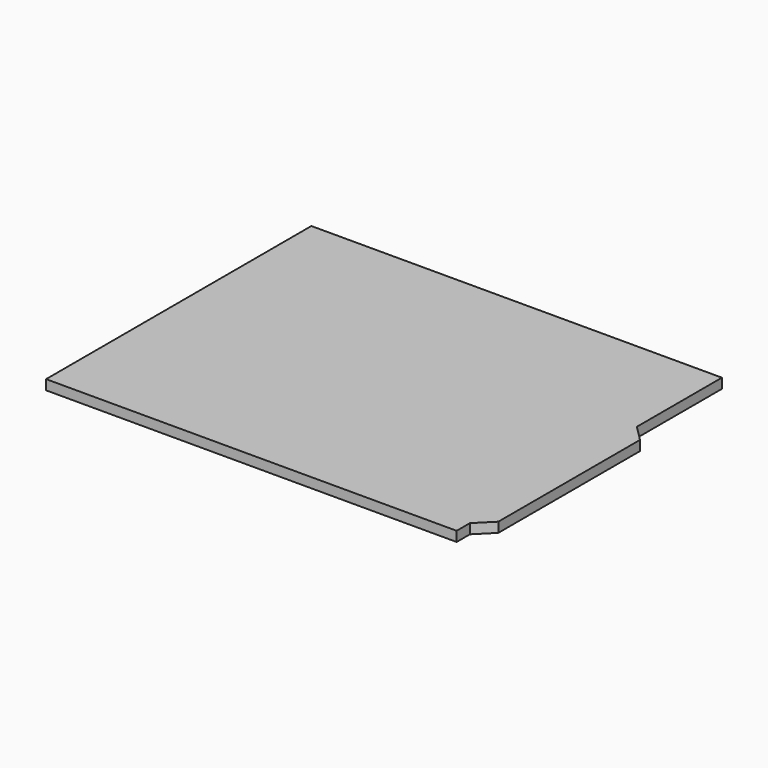
from build123d import *

# Parameters (mm, degrees)
F1_DEPTH = 1.588


with BuildPart() as f1:
    # F0 (on Top) → F1 (new body)
    with BuildSketch(Plane.XY):
        Polygon((33.02, 26.67), (-33.02, 26.67), (-33.02, -26.67), (33.02, -26.67), (33.02, -24.003), (33.02, 9.565706), align=None)
        Polygon((35.56, 7.025706), (33.02, 9.565706), (33.02, -24.003), (35.56, -21.463), align=None)
    extrude(amount=F1_DEPTH)


solid = f1.part
